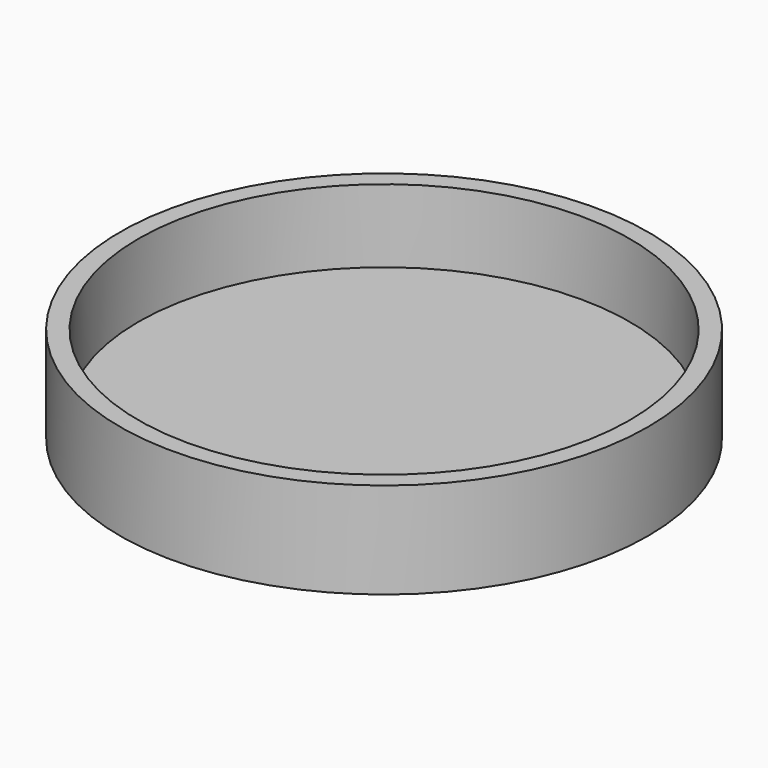
from build123d import *

# Parameters (mm, degrees)
F0_R     = 11.55
F0_R_2   = 10.75
F1_DEPTH = 3.2
F2_DEPTH = 1


with BuildPart() as f1:
    # F0 (on Top) → F1 (new body)
    with BuildSketch(Plane.XY):
        Circle(F0_R)
        Circle(F0_R_2, mode=Mode.SUBTRACT)
    extrude(amount=F1_DEPTH)

    # F0 (on Top) → F2 (join)
    with BuildSketch(Plane.XY):
        Circle(F0_R)
        Circle(F0_R_2, mode=Mode.SUBTRACT)
        Circle(F0_R_2)
    extrude(amount=-F2_DEPTH)


solid = f1.part
